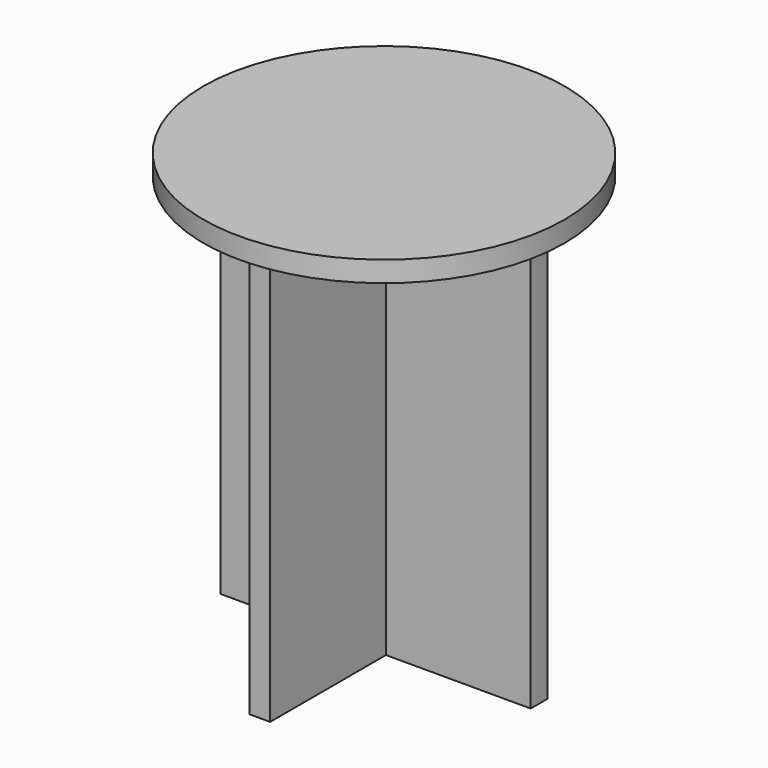
from build123d import *

# Parameters (mm, degrees)
F0_W     = 140
F0_H     = 20
F0_W_2   = 20
F0_H_2   = 140
F1_DEPTH = 400
F2_R     = 174.7152847857
F3_DEPTH = 20


with BuildPart() as f1:
    # F0 (on Top) → F1 (new body)
    with BuildSketch(Plane.XY):
        with Locations((80, 0)):
            Rectangle(F0_W, F0_H)
        with Locations((0, -80)):
            Rectangle(F0_W_2, F0_H_2)
        Rectangle(F0_W_2, F0_H)
        with Locations((-80, 0)):
            Rectangle(F0_W, F0_H)
        with Locations((0, 80)):
            Rectangle(F0_W_2, F0_H_2)
    extrude(amount=F1_DEPTH)


with BuildPart() as f3:
    # F2 (on face) → F3 (new body)
    with BuildSketch(Plane.XY.offset(400)):
        with Locations((-0.2660152095, 0.4655139055)):
            Circle(F2_R)
    extrude(amount=F3_DEPTH)


solid = Compound([f1.part, f3.part])
